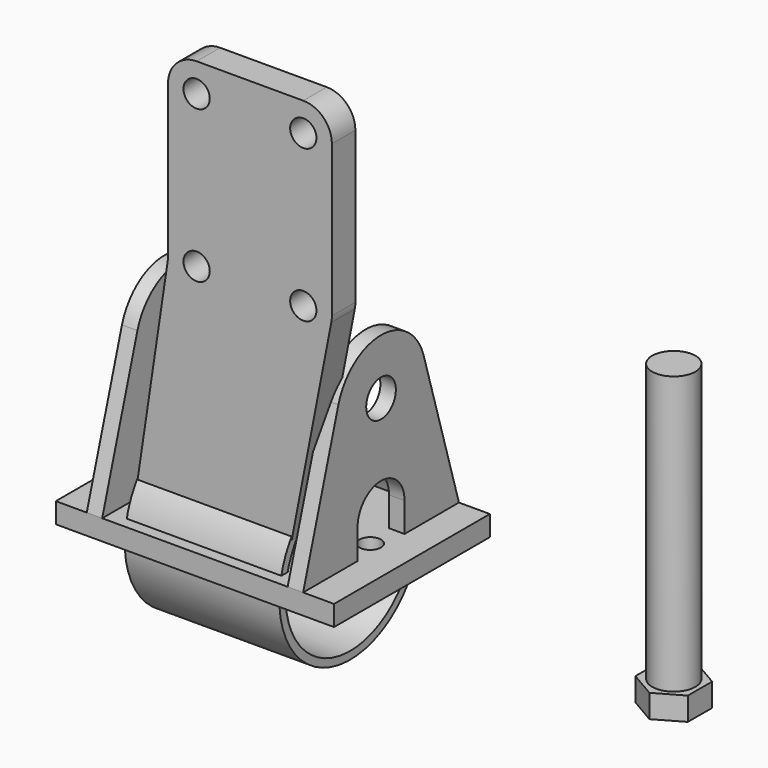
from build123d import *

# Parameters (mm, degrees)
F0_W      = 90
F0_H      = 63
F0_R      = 3.5
F1_DEPTH  = 6.6
F3_R      = 6
F4_DEPTH  = 5
F6_R      = 28.625
F6_R_2    = 26.125
F7_DEPTH  = 25
F9_R      = 4.25
F10_DEPTH = 9.5
F11_R     = 7
F12_DEPTH = 89.75
F13_R     = 7
F14_DEPTH = 7.5


with BuildPart() as f1:
    # F0 (on Top) → F1 (new body)
    with BuildSketch(Plane.XY):
        Rectangle(F0_W, F0_H)
        with Locations((-31.5, 0)):
            Circle(F0_R, mode=Mode.SUBTRACT)
        with Locations((31.5, 0)):
            Circle(F0_R, mode=Mode.SUBTRACT)
    extrude(amount=F1_DEPTH)

    # F3 (on offset) → F4 (join)
    with BuildSketch(Plane(origin=(-35, 0, 0), x_dir=(0, -1, 0), z_dir=(-1, 0, 0))):
        with BuildLine():
            Line((-17.2451045222, 54.258136293), (-31.5, 6.6))
            Line((-31.5, 6.6), (-9.5, 6.6))
            Line((-9.5, 6.6), (-9.5, 16.1))
            ThreePointArc((-9.5, 16.1), (0, 25.6), (9.5, 16.1))
            Line((9.5, 16.1), (9.5, 6.6))
            Line((9.5, 6.6), (31.5, 6.6))
            Line((31.5, 6.6), (17.2451045222, 54.258136293))
            ThreePointArc((17.2451045222, 54.258136293), (0, 67.1), (-17.2451045222, 54.258136293))
        make_face()
        with Locations((0, 49.1)):
            Circle(F3_R, mode=Mode.SUBTRACT)
    extrude(amount=-F4_DEPTH)

    # F5: F1 across plane


with BuildPart() as f1_1:
    add(f1.part)
    add(f1.part.mirror(Plane.YZ))


with BuildPart() as f7:
    # F6 (on Right) → F7 (new body, symmetric)
    with BuildSketch(Plane.YZ):
        Circle(F6_R)
        Circle(F6_R_2, mode=Mode.SUBTRACT)
    extrude(amount=F7_DEPTH, both=True)


with BuildPart() as f10:
    # F9 (on offset) → F10 (new body)
    with BuildSketch(Plane.XZ.offset(23.625)):
        with BuildLine():
            Line((28.75, 141.4194731562), (-5.75, 141.4194731562))
            ThreePointArc((-5.75, 141.4194731562), (-12.290737726, 138.7102108822), (-15, 132.1694731562))
            Line((-15, 132.1694731562), (-15, 82.9123682714))
            ThreePointArc((-15, 82.9123682714), (-15.0272884401, 82.1741107665), (-15.1090048287, 81.4398824408))
            Line((-15.1090048287, 81.4398824408), (-25, 15))
            Line((-25, 15), (25, 15))
            Line((25, 15), (37.8178271303, 81.2307881629))
            ThreePointArc((37.8178271303, 81.2307881629), (37.9543525983, 82.1764671942), (38, 83.1308593298))
            Line((38, 83.1308593298), (38, 132.1694731562))
            ThreePointArc((38, 132.1694731562), (35.290737726, 138.7102108822), (28.75, 141.4194731562))
        make_face()
        with Locations((-5.75, 83.0166818202)):
            Circle(F9_R, mode=Mode.SUBTRACT)
        with Locations((-5.75, 132.1694731562)):
            Circle(F9_R, mode=Mode.SUBTRACT)
        with Locations((28.75, 83.0166818202)):
            Circle(F9_R, mode=Mode.SUBTRACT)
        with Locations((28.75, 132.1694731562)):
            Circle(F9_R, mode=Mode.SUBTRACT)
    extrude(amount=-F10_DEPTH)


with BuildPart() as f12:
    # F11 (on Top) → F12 (new body)
    with BuildSketch(Plane.XY):
        with Locations((129.7004967928, 0)):
            Circle(F11_R)
    extrude(amount=F12_DEPTH)

    # F13 (on face) → F14 (join)
    with BuildSketch(Plane(origin=(0, 0, 0), x_dir=(1, 0, 0), z_dir=(0, 0, -1))):
        Polygon((138.1854801239, 4.9333955046), (129.6705426244, 9.8149088677), (121.1855592933, 4.8815133631), (121.2155134617, -4.9333955046), (129.7304509612, -9.8149088677), (138.2154342922, -4.8815133631), align=None)
        with Locations((129.7004967928, 0)):
            Circle(F13_R, mode=Mode.SUBTRACT)
        with Locations((129.7004967928, 0)):
            Circle(F13_R)
    extrude(amount=F14_DEPTH)


solid = Compound([f1_1.part, f7.part, f10.part, f12.part])
